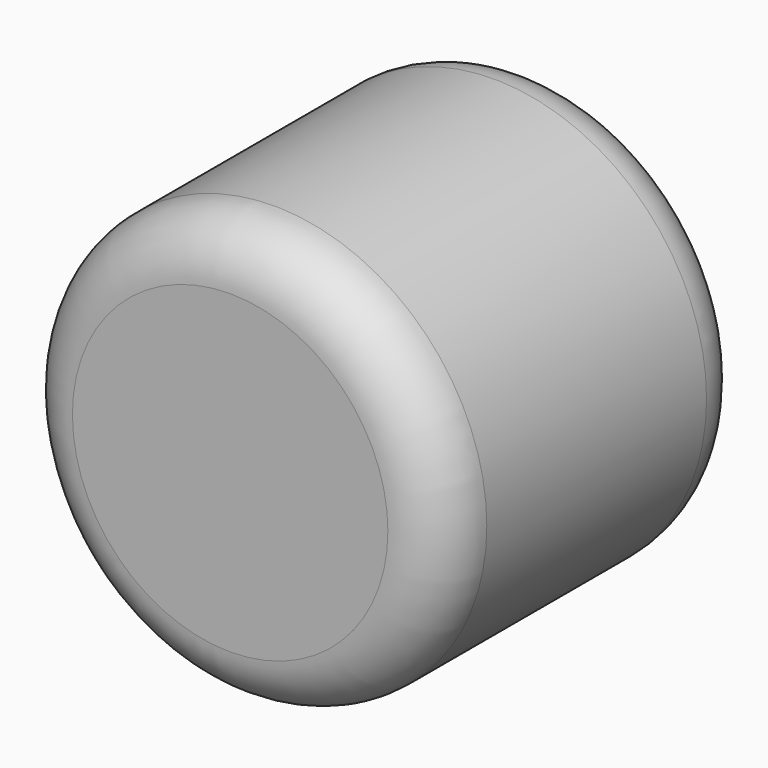
from build123d import *

# Parameters (mm, degrees)
F0_R     = 19.355113
F1_DEPTH = 17.5
F2_R     = 5
F3_R     = 5


with BuildPart() as f1:
    # F0 (on Front) → F1 (new body, symmetric)
    with BuildSketch(Plane.XZ):
        Circle(F0_R)
    extrude(amount=F1_DEPTH, both=True)

    # F2
    f2_edges = [f1.edges().sort_by_distance(p)[0] for p in [
        (-19.355113, -17.5, 0),
    ]]
    fillet(f2_edges, radius=F2_R)

    # F3
    f3_edges = [f1.edges().sort_by_distance(p)[0] for p in [
        (-19.355113, 17.5, 0),
    ]]
    fillet(f3_edges, radius=F3_R)


solid = f1.part
